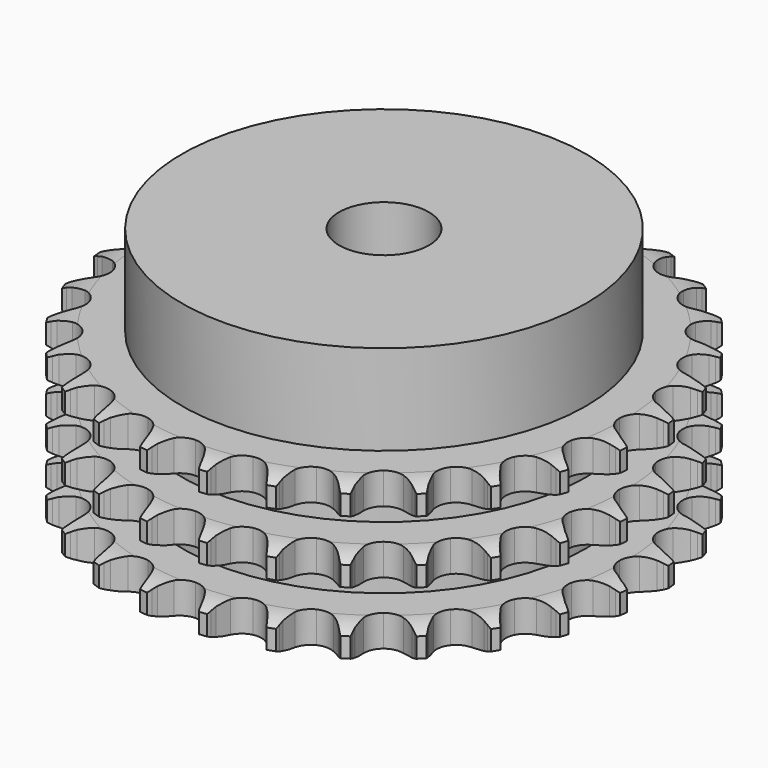
from build123d import *

# Parameters (mm, degrees)
PAD_DEPTH         = 34.9
SKETCH001_R       = 45
PAD001_DEPTH      = 55
SKETCH002_R       = 10
POCKET_DEPTH      = 0.001
POCKET_DEPTH_BACK = 55.001


with BuildPart() as part:
    # Sprocket → Pad (new body)
    with BuildSketch(Plane.XY):
        with BuildLine():
            ThreePointArc((-6.775463, 60.1339), (-5.959972, 59.077953), (-5.36144, 57.885557))
            Line((-5.36144, 57.885557), (-4.946783, 56.813337))
            ThreePointArc((-4.946783, 56.813337), (-4.287495, 55.408645), (-3.439129, 54.109378))
            ThreePointArc((-3.439129, 54.109378), (-1.92025, 52.850938), (0, 52.400042))
            ThreePointArc((0, 52.400042), (1.92025, 52.850938), (3.439129, 54.109378))
            ThreePointArc((3.439129, 54.109378), (4.287495, 55.408645), (4.946783, 56.813337))
            Line((4.946783, 56.813337), (5.36144, 57.885557))
            ThreePointArc((5.36144, 57.885557), (5.959972, 59.077953), (6.775463, 60.1339))
            ThreePointArc((6.775463, 60.1339), (7.335539, 58.922964), (7.653731, 57.627278))
            Line((7.653731, 57.627278), (7.8194, 56.489671))
            ThreePointArc((7.8194, 56.489671), (8.149585, 54.973492), (8.687567, 53.518021))
            ThreePointArc((8.687567, 53.518021), (9.888335, 51.95315), (11.660106, 51.086264))
            ThreePointArc((11.660106, 51.086264), (13.632545, 51.098559), (15.393372, 51.987465))
            Line((15.393372, 51.987465), (17.464914, 54.288146))
            ThreePointArc((17.464914, 54.288146), (17.774018, 54.77299), (18.107765, 55.241212))
            ThreePointArc((18.107765, 55.241212), (18.956624, 56.270527), (19.98664, 57.118535))
            ThreePointArc((19.98664, 57.118535), (20.263214, 55.813332), (20.285111, 54.479326))
            Line((20.285111, 54.479326), (20.193486, 53.333377))
            ThreePointArc((20.193486, 53.333377), (20.17801, 51.781739), (20.378632, 50.243047))
            ThreePointArc((20.378632, 50.243047), (21.201077, 48.450215), (22.735526, 47.210807))
            ThreePointArc((22.735526, 47.210807), (24.661248, 46.783884), (26.575727, 47.258683))
            Line((26.575727, 47.258683), (29.107281, 49.04072))
            ThreePointArc((29.107281, 49.04072), (29.516523, 49.444626), (29.946092, 49.826843))
            ThreePointArc((29.946092, 49.826843), (31.002712, 50.641462), (32.195603, 51.239009))
            ThreePointArc((32.195603, 51.239009), (32.174808, 49.904986), (31.899312, 48.599554))
            Line((31.899312, 48.599554), (31.554986, 47.502725))
            ThreePointArc((31.554986, 47.502725), (31.194626, 45.993433), (31.047827, 44.448677))
            ThreePointArc((31.047827, 44.448677), (31.450709, 42.517783), (32.670892, 40.968003))
            ThreePointArc((32.670892, 40.968003), (34.453332, 40.123271), (36.425465, 40.160154))
            Line((36.425465, 40.160154), (39.290087, 41.334187))
            ThreePointArc((39.290087, 41.334187), (39.778946, 41.636902), (40.282797, 41.913948))
            ThreePointArc((40.282797, 41.913948), (41.494195, 42.473022), (42.790144, 42.790144))
            ThreePointArc((42.790144, 42.790144), (42.473022, 41.494195), (41.913948, 40.282797))
            Line((41.913948, 40.282797), (41.334187, 39.290087))
            ThreePointArc((41.334187, 39.290087), (40.647014, 37.898824), (40.160154, 36.425465))
            ThreePointArc((40.160154, 36.425465), (40.123271, 34.453332), (40.968003, 32.670892))
            ThreePointArc((40.968003, 32.670892), (42.517783, 31.450709), (44.448677, 31.047827))
            Line((44.448677, 31.047827), (47.502725, 31.554986))
            ThreePointArc((47.502725, 31.554986), (48.046688, 31.741329), (48.599554, 31.899312))
            ThreePointArc((48.599554, 31.899312), (49.904986, 32.174808), (51.239009, 32.195603))
            ThreePointArc((51.239009, 32.195603), (50.641462, 31.002712), (49.826843, 29.946092))
            Line((49.826843, 29.946092), (49.04072, 29.107281))
            ThreePointArc((49.04072, 29.107281), (48.06119, 27.90381), (47.258683, 26.575727))
            ThreePointArc((47.258683, 26.575727), (46.783884, 24.661248), (47.210807, 22.735526))
            ThreePointArc((47.210807, 22.735526), (48.450215, 21.201077), (50.243047, 20.378632))
            Line((50.243047, 20.378632), (53.333377, 20.193486))
            ThreePointArc((53.333377, 20.193486), (53.905167, 20.254114), (54.479326, 20.285111))
            ThreePointArc((54.479326, 20.285111), (55.813332, 20.263214), (57.118535, 19.98664))
            ThreePointArc((57.118535, 19.98664), (56.270527, 18.956624), (55.241212, 18.107765))
            Line((55.241212, 18.107765), (54.288146, 17.464914))
            ThreePointArc((54.288146, 17.464914), (53.065377, 16.509582), (51.987465, 15.393372))
            ThreePointArc((51.987465, 15.393372), (51.098559, 13.632545), (51.086264, 11.660106))
            ThreePointArc((51.086264, 11.660106), (51.95315, 9.888335), (53.518021, 8.687567))
            Line((53.518021, 8.687567), (56.489671, 7.8194))
            ThreePointArc((56.489671, 7.8194), (57.060616, 7.751273), (57.627278, 7.653731))
            ThreePointArc((57.627278, 7.653731), (58.922964, 7.335539), (60.1339, 6.775463))
            ThreePointArc((60.1339, 6.775463), (59.077953, 5.959972), (57.885557, 5.36144))
            Line((57.885557, 5.36144), (56.813337, 4.946783))
            ThreePointArc((56.813337, 4.946783), (55.408645, 4.287495), (54.109378, 3.439129))
            ThreePointArc((54.109378, 3.439129), (52.850938, 1.92025), (52.400042, 0))
            ThreePointArc((52.400042, 0), (52.850938, -1.92025), (54.109378, -3.439129))
            Line((54.109378, -3.439129), (56.813337, -4.946783))
            ThreePointArc((56.813337, -4.946783), (57.354808, -5.140249), (57.885557, -5.36144))
            ThreePointArc((57.885557, -5.36144), (59.077953, -5.959972), (60.1339, -6.775463))
            ThreePointArc((60.1339, -6.775463), (58.922964, -7.335539), (57.627278, -7.653731))
            Line((57.627278, -7.653731), (56.489671, -7.8194))
            ThreePointArc((56.489671, -7.8194), (54.973492, -8.149585), (53.518021, -8.687567))
            ThreePointArc((53.518021, -8.687567), (51.95315, -9.888335), (51.086264, -11.660106))
            ThreePointArc((51.086264, -11.660106), (51.098559, -13.632545), (51.987465, -15.393372))
            Line((51.987465, -15.393372), (54.288146, -17.464914))
            ThreePointArc((54.288146, -17.464914), (54.77299, -17.774018), (55.241212, -18.107765))
            ThreePointArc((55.241212, -18.107765), (56.270527, -18.956624), (57.118535, -19.98664))
            ThreePointArc((57.118535, -19.98664), (55.813332, -20.263214), (54.479326, -20.285111))
            Line((54.479326, -20.285111), (53.333377, -20.193486))
            ThreePointArc((53.333377, -20.193486), (51.781739, -20.17801), (50.243047, -20.378632))
            ThreePointArc((50.243047, -20.378632), (48.450215, -21.201077), (47.210807, -22.735526))
            ThreePointArc((47.210807, -22.735526), (46.783884, -24.661248), (47.258683, -26.575727))
            Line((47.258683, -26.575727), (49.04072, -29.107281))
            ThreePointArc((49.04072, -29.107281), (49.444626, -29.516523), (49.826843, -29.946092))
            ThreePointArc((49.826843, -29.946092), (50.641462, -31.002712), (51.239009, -32.195603))
            ThreePointArc((51.239009, -32.195603), (49.904986, -32.174808), (48.599554, -31.899312))
            Line((48.599554, -31.899312), (47.502725, -31.554986))
            ThreePointArc((47.502725, -31.554986), (45.993433, -31.194626), (44.448677, -31.047827))
            ThreePointArc((44.448677, -31.047827), (42.517783, -31.450709), (40.968003, -32.670892))
            ThreePointArc((40.968003, -32.670892), (40.123271, -34.453332), (40.160154, -36.425465))
            Line((40.160154, -36.425465), (41.334187, -39.290087))
            ThreePointArc((41.334187, -39.290087), (41.636902, -39.778946), (41.913948, -40.282797))
            ThreePointArc((41.913948, -40.282797), (42.473022, -41.494195), (42.790144, -42.790144))
            ThreePointArc((42.790144, -42.790144), (41.494195, -42.473022), (40.282797, -41.913948))
            Line((40.282797, -41.913948), (39.290087, -41.334187))
            ThreePointArc((39.290087, -41.334187), (37.898824, -40.647014), (36.425465, -40.160154))
            ThreePointArc((36.425465, -40.160154), (34.453332, -40.123271), (32.670892, -40.968003))
            ThreePointArc((32.670892, -40.968003), (31.450709, -42.517783), (31.047827, -44.448677))
            Line((31.047827, -44.448677), (31.554986, -47.502725))
            ThreePointArc((31.554986, -47.502725), (31.741329, -48.046688), (31.899312, -48.599554))
            ThreePointArc((31.899312, -48.599554), (32.174808, -49.904986), (32.195603, -51.239009))
            ThreePointArc((32.195603, -51.239009), (31.002712, -50.641462), (29.946092, -49.826843))
            Line((29.946092, -49.826843), (29.107281, -49.04072))
            ThreePointArc((29.107281, -49.04072), (27.90381, -48.06119), (26.575727, -47.258683))
            ThreePointArc((26.575727, -47.258683), (24.661248, -46.783884), (22.735526, -47.210807))
            ThreePointArc((22.735526, -47.210807), (21.201077, -48.450215), (20.378632, -50.243047))
            Line((20.378632, -50.243047), (20.193486, -53.333377))
            ThreePointArc((20.193486, -53.333377), (20.254114, -53.905167), (20.285111, -54.479326))
            ThreePointArc((20.285111, -54.479326), (20.263214, -55.813332), (19.98664, -57.118535))
            ThreePointArc((19.98664, -57.118535), (18.956624, -56.270527), (18.107765, -55.241212))
            Line((18.107765, -55.241212), (17.464914, -54.288146))
            ThreePointArc((17.464914, -54.288146), (16.509582, -53.065377), (15.393372, -51.987465))
            ThreePointArc((15.393372, -51.987465), (13.632545, -51.098559), (11.660106, -51.086264))
            ThreePointArc((11.660106, -51.086264), (9.888335, -51.95315), (8.687567, -53.518021))
            Line((8.687567, -53.518021), (7.8194, -56.489671))
            ThreePointArc((7.8194, -56.489671), (7.751273, -57.060616), (7.653731, -57.627278))
            ThreePointArc((7.653731, -57.627278), (7.335539, -58.922964), (6.775463, -60.1339))
            ThreePointArc((6.775463, -60.1339), (5.959972, -59.077953), (5.36144, -57.885557))
            Line((5.36144, -57.885557), (4.946783, -56.813337))
            ThreePointArc((4.946783, -56.813337), (4.287495, -55.408645), (3.439129, -54.109378))
            ThreePointArc((3.439129, -54.109378), (1.92025, -52.850938), (0, -52.400042))
            ThreePointArc((0, -52.400042), (-1.92025, -52.850938), (-3.439129, -54.109378))
            Line((-3.439129, -54.109378), (-4.946783, -56.813337))
            ThreePointArc((-4.946783, -56.813337), (-5.140249, -57.354808), (-5.36144, -57.885557))
            ThreePointArc((-5.36144, -57.885557), (-5.959972, -59.077953), (-6.775463, -60.1339))
            ThreePointArc((-6.775463, -60.1339), (-7.335539, -58.922964), (-7.653731, -57.627278))
            Line((-7.653731, -57.627278), (-7.8194, -56.489671))
            ThreePointArc((-7.8194, -56.489671), (-8.149585, -54.973492), (-8.687567, -53.518021))
            ThreePointArc((-8.687567, -53.518021), (-9.888335, -51.95315), (-11.660106, -51.086264))
            ThreePointArc((-11.660106, -51.086264), (-13.632545, -51.098559), (-15.393372, -51.987465))
            Line((-15.393372, -51.987465), (-17.464914, -54.288146))
            ThreePointArc((-17.464914, -54.288146), (-17.774018, -54.77299), (-18.107765, -55.241212))
            ThreePointArc((-18.107765, -55.241212), (-18.956624, -56.270527), (-19.98664, -57.118535))
            ThreePointArc((-19.98664, -57.118535), (-20.263214, -55.813332), (-20.285111, -54.479326))
            Line((-20.285111, -54.479326), (-20.193486, -53.333377))
            ThreePointArc((-20.193486, -53.333377), (-20.17801, -51.781739), (-20.378632, -50.243047))
            ThreePointArc((-20.378632, -50.243047), (-21.201077, -48.450215), (-22.735526, -47.210807))
            ThreePointArc((-22.735526, -47.210807), (-24.661248, -46.783884), (-26.575727, -47.258683))
            Line((-26.575727, -47.258683), (-29.107281, -49.04072))
            ThreePointArc((-29.107281, -49.04072), (-29.516523, -49.444626), (-29.946092, -49.826843))
            ThreePointArc((-29.946092, -49.826843), (-31.002712, -50.641462), (-32.195603, -51.239009))
            ThreePointArc((-32.195603, -51.239009), (-32.174808, -49.904986), (-31.899312, -48.599554))
            Line((-31.899312, -48.599554), (-31.554986, -47.502725))
            ThreePointArc((-31.554986, -47.502725), (-31.194626, -45.993433), (-31.047827, -44.448677))
            ThreePointArc((-31.047827, -44.448677), (-31.450709, -42.517783), (-32.670892, -40.968003))
            ThreePointArc((-32.670892, -40.968003), (-34.453332, -40.123271), (-36.425465, -40.160154))
            Line((-36.425465, -40.160154), (-39.290087, -41.334187))
            ThreePointArc((-39.290087, -41.334187), (-39.778946, -41.636902), (-40.282797, -41.913948))
            ThreePointArc((-40.282797, -41.913948), (-41.494195, -42.473022), (-42.790144, -42.790144))
            ThreePointArc((-42.790144, -42.790144), (-42.473022, -41.494195), (-41.913948, -40.282797))
            Line((-41.913948, -40.282797), (-41.334187, -39.290087))
            ThreePointArc((-41.334187, -39.290087), (-40.647014, -37.898824), (-40.160154, -36.425465))
            ThreePointArc((-40.160154, -36.425465), (-40.123271, -34.453332), (-40.968003, -32.670892))
            ThreePointArc((-40.968003, -32.670892), (-42.517783, -31.450709), (-44.448677, -31.047827))
            Line((-44.448677, -31.047827), (-47.502725, -31.554986))
            ThreePointArc((-47.502725, -31.554986), (-48.046688, -31.741329), (-48.599554, -31.899312))
            ThreePointArc((-48.599554, -31.899312), (-49.904986, -32.174808), (-51.239009, -32.195603))
            ThreePointArc((-51.239009, -32.195603), (-50.641462, -31.002712), (-49.826843, -29.946092))
            Line((-49.826843, -29.946092), (-49.04072, -29.107281))
            ThreePointArc((-49.04072, -29.107281), (-48.06119, -27.90381), (-47.258683, -26.575727))
            ThreePointArc((-47.258683, -26.575727), (-46.783884, -24.661248), (-47.210807, -22.735526))
            ThreePointArc((-47.210807, -22.735526), (-48.450215, -21.201077), (-50.243047, -20.378632))
            Line((-50.243047, -20.378632), (-53.333377, -20.193486))
            ThreePointArc((-53.333377, -20.193486), (-53.905167, -20.254114), (-54.479326, -20.285111))
            ThreePointArc((-54.479326, -20.285111), (-55.813332, -20.263214), (-57.118535, -19.98664))
            ThreePointArc((-57.118535, -19.98664), (-56.270527, -18.956624), (-55.241212, -18.107765))
            Line((-55.241212, -18.107765), (-54.288146, -17.464914))
            ThreePointArc((-54.288146, -17.464914), (-53.065377, -16.509582), (-51.987465, -15.393372))
            ThreePointArc((-51.987465, -15.393372), (-51.098559, -13.632545), (-51.086264, -11.660106))
            ThreePointArc((-51.086264, -11.660106), (-51.95315, -9.888335), (-53.518021, -8.687567))
            Line((-53.518021, -8.687567), (-56.489671, -7.8194))
            ThreePointArc((-56.489671, -7.8194), (-57.060616, -7.751273), (-57.627278, -7.653731))
            ThreePointArc((-57.627278, -7.653731), (-58.922964, -7.335539), (-60.1339, -6.775463))
            ThreePointArc((-60.1339, -6.775463), (-59.077953, -5.959972), (-57.885557, -5.36144))
            Line((-57.885557, -5.36144), (-56.813337, -4.946783))
            ThreePointArc((-56.813337, -4.946783), (-55.408645, -4.287495), (-54.109378, -3.439129))
            ThreePointArc((-54.109378, -3.439129), (-52.850938, -1.92025), (-52.400042, 0))
            ThreePointArc((-52.400042, 0), (-52.850938, 1.92025), (-54.109378, 3.439129))
            Line((-54.109378, 3.439129), (-56.813337, 4.946783))
            ThreePointArc((-56.813337, 4.946783), (-57.354808, 5.140249), (-57.885557, 5.36144))
            ThreePointArc((-57.885557, 5.36144), (-59.077953, 5.959972), (-60.1339, 6.775463))
            ThreePointArc((-60.1339, 6.775463), (-58.922964, 7.335539), (-57.627278, 7.653731))
            Line((-57.627278, 7.653731), (-56.489671, 7.8194))
            ThreePointArc((-56.489671, 7.8194), (-54.973492, 8.149585), (-53.518021, 8.687567))
            ThreePointArc((-53.518021, 8.687567), (-51.95315, 9.888335), (-51.086264, 11.660106))
            ThreePointArc((-51.086264, 11.660106), (-51.098559, 13.632545), (-51.987465, 15.393372))
            Line((-51.987465, 15.393372), (-54.288146, 17.464914))
            ThreePointArc((-54.288146, 17.464914), (-54.77299, 17.774018), (-55.241212, 18.107765))
            ThreePointArc((-55.241212, 18.107765), (-56.270527, 18.956624), (-57.118535, 19.98664))
            ThreePointArc((-57.118535, 19.98664), (-55.813332, 20.263214), (-54.479326, 20.285111))
            Line((-54.479326, 20.285111), (-53.333377, 20.193486))
            ThreePointArc((-53.333377, 20.193486), (-51.781739, 20.17801), (-50.243047, 20.378632))
            ThreePointArc((-50.243047, 20.378632), (-48.450215, 21.201077), (-47.210807, 22.735526))
            ThreePointArc((-47.210807, 22.735526), (-46.783884, 24.661248), (-47.258683, 26.575727))
            Line((-47.258683, 26.575727), (-49.04072, 29.107281))
            ThreePointArc((-49.04072, 29.107281), (-49.444626, 29.516523), (-49.826843, 29.946092))
            ThreePointArc((-49.826843, 29.946092), (-50.641462, 31.002712), (-51.239009, 32.195603))
            ThreePointArc((-51.239009, 32.195603), (-49.904986, 32.174808), (-48.599554, 31.899312))
            Line((-48.599554, 31.899312), (-47.502725, 31.554986))
            ThreePointArc((-47.502725, 31.554986), (-45.993433, 31.194626), (-44.448677, 31.047827))
            ThreePointArc((-44.448677, 31.047827), (-42.517783, 31.450709), (-40.968003, 32.670892))
            ThreePointArc((-40.968003, 32.670892), (-40.123271, 34.453332), (-40.160154, 36.425465))
            Line((-40.160154, 36.425465), (-41.334187, 39.290087))
            ThreePointArc((-41.334187, 39.290087), (-41.636902, 39.778946), (-41.913948, 40.282797))
            ThreePointArc((-41.913948, 40.282797), (-42.473022, 41.494195), (-42.790144, 42.790144))
            ThreePointArc((-42.790144, 42.790144), (-41.494195, 42.473022), (-40.282797, 41.913948))
            Line((-40.282797, 41.913948), (-39.290087, 41.334187))
            ThreePointArc((-39.290087, 41.334187), (-37.898824, 40.647014), (-36.425465, 40.160154))
            ThreePointArc((-36.425465, 40.160154), (-34.453332, 40.123271), (-32.670892, 40.968003))
            ThreePointArc((-32.670892, 40.968003), (-31.450709, 42.517783), (-31.047827, 44.448677))
            Line((-31.047827, 44.448677), (-31.554986, 47.502725))
            ThreePointArc((-31.554986, 47.502725), (-31.741329, 48.046688), (-31.899312, 48.599554))
            ThreePointArc((-31.899312, 48.599554), (-32.174808, 49.904986), (-32.195603, 51.239009))
            ThreePointArc((-32.195603, 51.239009), (-31.002712, 50.641462), (-29.946092, 49.826843))
            Line((-29.946092, 49.826843), (-29.107281, 49.04072))
            ThreePointArc((-29.107281, 49.04072), (-27.90381, 48.06119), (-26.575727, 47.258683))
            ThreePointArc((-26.575727, 47.258683), (-24.661248, 46.783884), (-22.735526, 47.210807))
            ThreePointArc((-22.735526, 47.210807), (-21.201077, 48.450215), (-20.378632, 50.243047))
            Line((-20.378632, 50.243047), (-20.193486, 53.333377))
            ThreePointArc((-20.193486, 53.333377), (-20.254114, 53.905167), (-20.285111, 54.479326))
            ThreePointArc((-20.285111, 54.479326), (-20.263214, 55.813332), (-19.98664, 57.118535))
            ThreePointArc((-19.98664, 57.118535), (-18.956624, 56.270527), (-18.107765, 55.241212))
            Line((-18.107765, 55.241212), (-17.464914, 54.288146))
            ThreePointArc((-17.464914, 54.288146), (-16.509582, 53.065377), (-15.393372, 51.987465))
            ThreePointArc((-15.393372, 51.987465), (-13.632545, 51.098559), (-11.660106, 51.086264))
            ThreePointArc((-11.660106, 51.086264), (-9.888335, 51.95315), (-8.687567, 53.518021))
            Line((-8.687567, 53.518021), (-7.8194, 56.489671))
            ThreePointArc((-7.8194, 56.489671), (-7.751273, 57.060616), (-7.653731, 57.627278))
            ThreePointArc((-7.653731, 57.627278), (-7.335539, 58.922964), (-6.775463, 60.1339))
        make_face()
    extrude(amount=PAD_DEPTH)

    # Sketch → Groove (revolve, cut)
    with BuildSketch(Plane.XZ):
        with BuildLine():
            ThreePointArc((53.333431, 0), (56.24032, 0.329167), (59, 1.3))
            Line((59, 1.3), (59, 5.7))
            ThreePointArc((59, 5.7), (56.24032, 6.670833), (53.333431, 7))
            Line((45, 7), (53.333431, 7))
            Line((45, 7), (45, 13.95))
            Line((45, 13.95), (53.333431, 13.95))
            ThreePointArc((53.333431, 13.95), (56.24032, 14.279167), (59, 15.25))
            Line((59, 19.65), (59, 15.25))
            ThreePointArc((59, 19.65), (56.24032, 20.620833), (53.333431, 20.95))
            Line((45, 20.95), (53.333431, 20.95))
            Line((45, 27.9), (45, 20.95))
            Line((53.333431, 27.9), (45, 27.9))
            ThreePointArc((53.333431, 27.9), (56.24032, 28.229167), (59, 29.2))
            Line((59, 29.2), (59, 33.6))
            ThreePointArc((59, 33.6), (56.24032, 34.570833), (53.333431, 34.9))
            Line((53.333431, 34.9), (69, 34.9))
            Line((69, 34.9), (69, 0))
            Line((53.333431, 0), (69, 0))
        make_face()
    revolve(axis=Axis((0, 0, 0), (0, 0, 1)), mode=Mode.SUBTRACT)

    # Sketch001 → Pad001 (join)
    with BuildSketch(Plane.XY):
        Circle(SKETCH001_R)
    extrude(amount=PAD001_DEPTH)

    # Sketch002 → Pocket (cut, two sides)
    with BuildSketch(Plane.XY) as pocket_sk:
        Circle(SKETCH002_R)
    extrude(amount=-POCKET_DEPTH, mode=Mode.SUBTRACT)
    extrude(pocket_sk.sketch, amount=POCKET_DEPTH_BACK, mode=Mode.SUBTRACT)


solid = part.part
